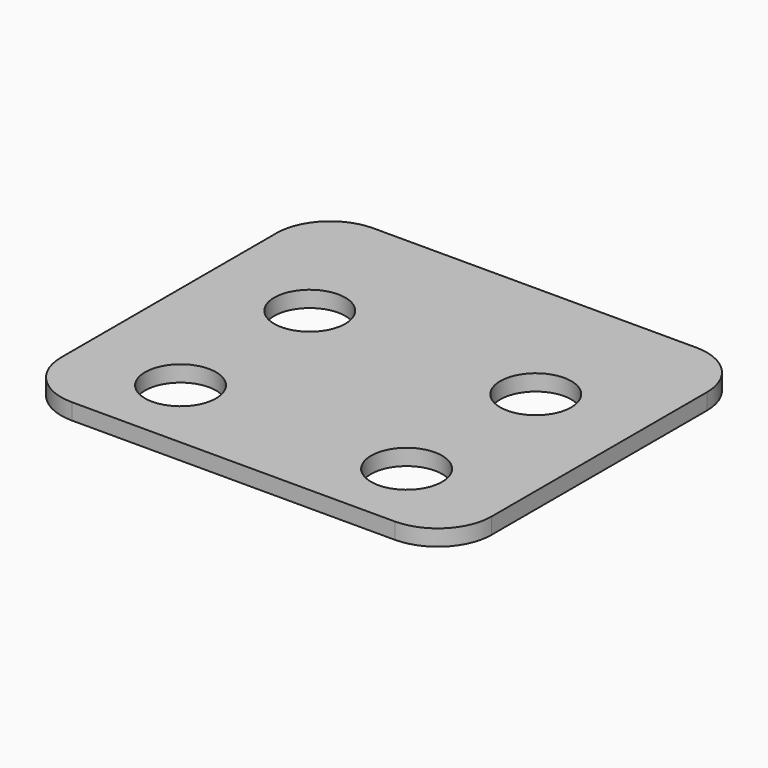
from build123d import *

# Parameters (mm, degrees)
F1_DEPTH = 20
F3_D     = 6.6
F3_DEPTH = 43
F3_TIP   = 1.9828400428
F4_R     = 5


with BuildPart() as f1:
    # F0 (on Right) → F1 (new body, symmetric)
    with BuildSketch(Plane.YZ):
        Polygon((0, 0), (0, -0.75), (35, -0.75), (35, 0.75), (0, 0.75), align=None)
    extrude(amount=F1_DEPTH, both=True)

    # F3
    with Locations(Plane.XY.offset(0.75)):
        with Locations((-10.5, 7), (10.5, 7), (10.5, 22), (-10.5, 22)):
            Hole(F3_D / 2, depth=F3_DEPTH)
            with Locations((0, 0, -(F3_DEPTH + F3_TIP / 2))):  # 118° drill point
                Cone(0, F3_D / 2, F3_TIP, mode=Mode.SUBTRACT)

    # F4
    f4_edges = [f1.edges().sort_by_distance(p)[0] for p in [
        (20, 0, 0),
        (-20, 0, 0),
        (20, 35, 0),
        (-20, 35, 0),
    ]]
    fillet(f4_edges, radius=F4_R)


solid = f1.part
